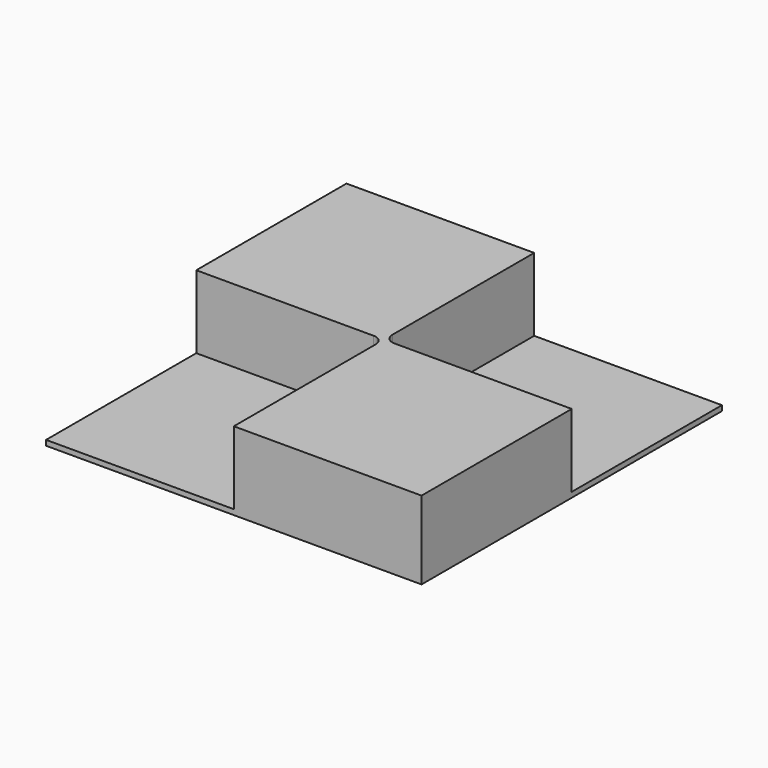
from build123d import *

# Parameters (mm, degrees)
F1_W     = 18
F1_H     = 18
F2_DEPTH = 7.5
F3_DEPTH = 7
F4_R     = 1
F5_DEPTH = 7
F6_R     = 1


with BuildPart() as f2:
    # F1 (on offset) → F2 (new body)
    with BuildSketch(Plane.XY.offset(7.5)):
        with Locations((9, -9)):
            Rectangle(F1_W, F1_H)
        with Locations((-9, 9)):
            Rectangle(F1_W, F1_H)
        with Locations((9, 9)):
            Rectangle(F1_W, F1_H)
        with Locations((-9, -9)):
            Rectangle(F1_W, F1_H)
    extrude(amount=-F2_DEPTH)

    # F1 (on offset) → F3 (cut)
    with BuildSketch(Plane.XY.offset(7.5)):
        with Locations((9, 9)):
            Rectangle(F1_W, F1_H)
    extrude(amount=-F3_DEPTH, mode=Mode.SUBTRACT)

    # F4
    f4_edges = [f2.edges().sort_by_distance(p)[0] for p in [
        (0, 0, 4),
    ]]
    fillet(f4_edges, radius=F4_R)

    # F1 (on offset) → F5 (cut)
    with BuildSketch(Plane.XY.offset(7.5)):
        with Locations((-9, -9)):
            Rectangle(F1_W, F1_H)
    extrude(amount=-F5_DEPTH, mode=Mode.SUBTRACT)

    # F6
    f6_edges = [f2.edges().sort_by_distance(p)[0] for p in [
        (0, 0, 4),
    ]]
    fillet(f6_edges, radius=F6_R)


solid = f2.part
